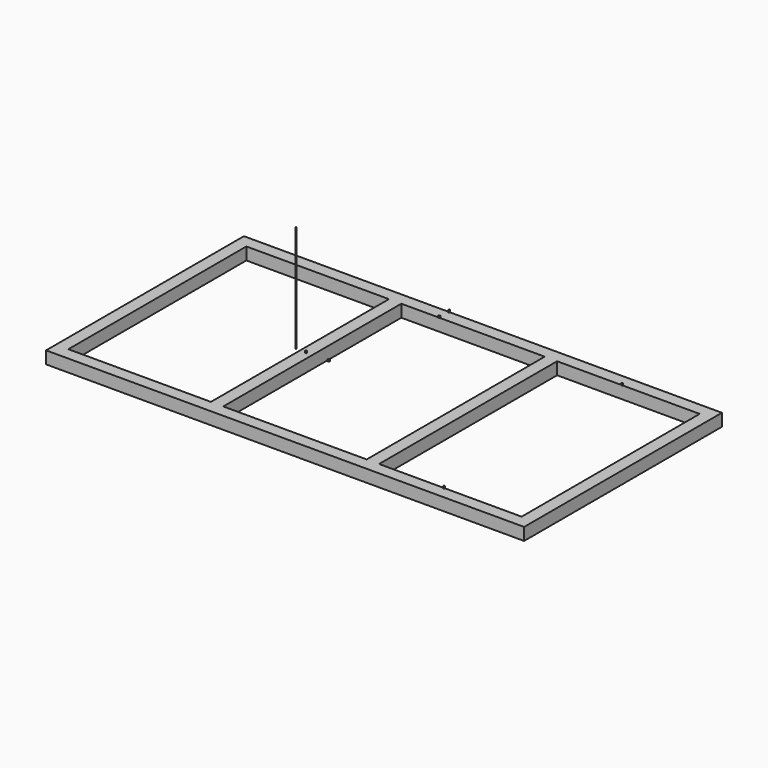
from build123d import *

# Parameters (mm, degrees)
F0_W     = 2900
F0_H     = 1500
F0_W_2   = 75
F0_H_2   = 1350
F1_DEPTH = 75
F2_R     = 5
F3_DEPTH = 10
F4_DEPTH = 10
F5_R     = 2.5
F6_DEPTH = 650


with BuildPart() as f1:
    # F0 (on Top) → F1 (new body)
    with BuildSketch(Plane.XY):
        Rectangle(F0_W, F0_H)
        Polygon((-510, -675), (-1375, -675), (-1375, 675), (-510, 675), (-435, 675), (435, 675), (510, 675), (1375, 675), (1375, -675), (510, -675), (435, -675), (-435, -675), align=None, mode=Mode.SUBTRACT)
        with Locations((-472.5, 0)):
            Rectangle(F0_W_2, F0_H_2)
        with Locations((472.5, 0)):
            Rectangle(F0_W_2, F0_H_2)
    extrude(amount=F1_DEPTH)

    # F2 (on face) → F3 (join)
    with BuildSketch(Plane.XY.offset(75)):
        with Locations((-472.5, 0)):
            Circle(F2_R)
        with BuildLine():
            ThreePointArc((-330, 0), (-335, 5), (-340, 0))
            ThreePointArc((-340, 0), (-335, -5), (-330, 0))
        make_face()
        with BuildLine():
            Line((-205, 680), (-205, 675))
            Line((-205, 675), (-200, 675))
            ThreePointArc((-200, 675), (-201.464466, 678.535534), (-205, 680))
        make_face()
        with BuildLine():
            Line((-200, 675), (-205, 675))
            Line((-205, 675), (-210, 675))
            ThreePointArc((-210, 675), (-205, 670), (-200, 675))
        make_face()
        with BuildLine():
            Line((-210, 675), (-205, 675))
            Line((-205, 675), (-205, 680))
            ThreePointArc((-205, 680), (-208.535534, 678.535534), (-210, 675))
        make_face()
        with BuildLine():
            ThreePointArc((910, 675), (905, 680), (900, 675))
            ThreePointArc((900, 675), (905, 670), (910, 675))
        make_face()
        with BuildLine():
            ThreePointArc((-200, 750), (-208.535534, 753.535534), (-205, 745))
            ThreePointArc((-205, 745), (-201.464466, 746.464466), (-200, 750))
        make_face()
        with BuildLine():
            ThreePointArc((900, -675), (905, -680), (910, -675))
            ThreePointArc((910, -675), (905, -670), (900, -675))
        make_face()
    extrude(amount=F3_DEPTH)


with BuildPart() as f4:
    # F2 (on face) → F4 (new body)
    with BuildSketch(Plane.XY.offset(75)):
        with Locations((-472.5, 0)):
            Circle(F2_R)
        with BuildLine():
            ThreePointArc((-330, 0), (-335, 5), (-340, 0))
            ThreePointArc((-340, 0), (-335, -5), (-330, 0))
        make_face()
        with BuildLine():
            Line((-205, 680), (-205, 675))
            Line((-205, 675), (-200, 675))
            ThreePointArc((-200, 675), (-201.464466, 678.535534), (-205, 680))
        make_face()
        with BuildLine():
            Line((-200, 675), (-205, 675))
            Line((-205, 675), (-210, 675))
            ThreePointArc((-210, 675), (-205, 670), (-200, 675))
        make_face()
        with BuildLine():
            Line((-210, 675), (-205, 675))
            Line((-205, 675), (-205, 680))
            ThreePointArc((-205, 680), (-208.535534, 678.535534), (-210, 675))
        make_face()
        with BuildLine():
            ThreePointArc((910, 675), (905, 680), (900, 675))
            ThreePointArc((900, 675), (905, 670), (910, 675))
        make_face()
        with BuildLine():
            ThreePointArc((-200, 750), (-208.535534, 753.535534), (-205, 745))
            ThreePointArc((-205, 745), (-201.464466, 746.464466), (-200, 750))
        make_face()
        with BuildLine():
            ThreePointArc((900, -675), (905, -680), (910, -675))
            ThreePointArc((910, -675), (905, -670), (900, -675))
        make_face()
    extrude(amount=F4_DEPTH)


with BuildPart() as f6:
    # F5 (on face) → F6 (new body)
    with BuildSketch(Plane.XY.offset(75)):
        with Locations((-535, 0)):
            Circle(F5_R)
    extrude(amount=F6_DEPTH)


solid = Compound([f1.part, f4.part, f6.part])
